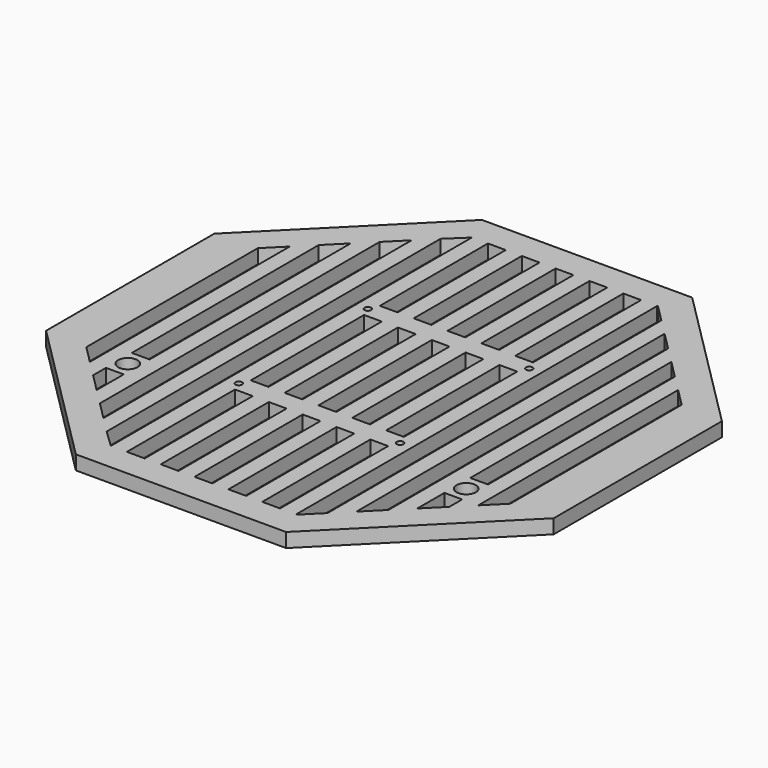
from build123d import *

# Parameters (mm, degrees)
F0_W     = 7
F0_H     = 53.215195
F0_R     = 1.3
F0_R_2   = 3.81
F0_H_2   = 55.78279
F1_DEPTH = 5.588


with BuildPart() as f1:
    # F0 (on Top) → F1 (new body)
    with BuildSketch(Plane.XY):
        Polygon((41.421356, 100), (-41.421356, 100), (-100, 41.421356), (-100, -41.421356), (-41.421356, -100), (41.421356, -100), (100, -41.421356), (100, 41.421356), align=None)
        Polygon((-63.175, -49.213586), (-63.175, -62.548586), (-70.175, -55.548586), (-70.175, -49.213586), align=None, mode=Mode.SUBTRACT)
        with Locations((-26.67, -62.292402)):
            Rectangle(F0_W, F0_H, mode=Mode.SUBTRACT)
        with Locations((-13.335, -62.292402)):
            Rectangle(F0_W, F0_H, mode=Mode.SUBTRACT)
        with BuildLine():
            ThreePointArc((-63.175, -41.344643), (-62.943305, -42.081527), (-62.865, -42.85))
            ThreePointArc((-62.865, -42.85), (-62.943305, -43.618473), (-63.175, -44.355357))
            ThreePointArc((-63.175, -44.355357), (-70.485, -42.85), (-63.175, -41.344643))
        make_face(mode=Mode.SUBTRACT)
        with Locations((-31.7881, -31.7881)):
            Circle(F0_R, mode=Mode.SUBTRACT)
        with Locations((0, -62.292402)):
            Rectangle(F0_W, F0_H, mode=Mode.SUBTRACT)
        with Locations((13.335, -62.292402)):
            Rectangle(F0_W, F0_H, mode=Mode.SUBTRACT)
        with Locations((26.67, -62.292402)):
            Rectangle(F0_W, F0_H, mode=Mode.SUBTRACT)
        Polygon((70.175, -55.548586), (63.175, -62.548586), (63.175, -49.213586), (70.175, -49.213586), align=None, mode=Mode.SUBTRACT)
        with Locations((31.7881, -31.7881)):
            Circle(F0_R, mode=Mode.SUBTRACT)
        with Locations((66.675, -42.85)):
            Circle(F0_R_2, mode=Mode.SUBTRACT)
        Polygon((49.84, -75.883586), (49.84, 75.883586), (56.84, 68.883586), (56.84, -36.486414), (56.84, -49.213586), (56.84, -68.883586), align=None, mode=Mode.SUBTRACT)
        Polygon((76.51, 49.213586), (83.51, 42.213586), (83.51, -42.213586), (76.51, -49.213586), (76.51, -36.486414), align=None, mode=Mode.SUBTRACT)
        Polygon((-83.51, -42.213586), (-83.51, 42.213586), (-76.51, 49.213586), (-76.51, -36.486414), (-76.51, -49.213586), align=None, mode=Mode.SUBTRACT)
        Polygon((-56.84, -36.486414), (-56.84, 68.883586), (-49.84, 75.883586), (-49.84, -75.883586), (-56.84, -68.883586), (-56.84, -49.213586), align=None, mode=Mode.SUBTRACT)
        Polygon((-70.175, -36.486414), (-70.175, 55.548586), (-63.175, 62.548586), (-63.175, -36.486414), align=None, mode=Mode.SUBTRACT)
        Polygon((-43.505, 82.218586), (-36.505, 88.9), (-36.505, 35.684805), (-36.505, 27.891395), (-36.505, -27.891395), (-36.505, -35.684805), (-36.505, -88.9), (-43.505, -82.218586), align=None, mode=Mode.SUBTRACT)
        with Locations((-26.67, 0)):
            Rectangle(F0_W, F0_H_2, mode=Mode.SUBTRACT)
        with Locations((-13.335, 0)):
            Rectangle(F0_W, F0_H_2, mode=Mode.SUBTRACT)
        with Locations((-31.7881, 31.7881)):
            Circle(F0_R, mode=Mode.SUBTRACT)
        with Locations((-26.67, 62.292402)):
            Rectangle(F0_W, F0_H, mode=Mode.SUBTRACT)
        with Locations((-13.335, 62.292402)):
            Rectangle(F0_W, F0_H, mode=Mode.SUBTRACT)
        Rectangle(F0_W, F0_H_2, mode=Mode.SUBTRACT)
        with Locations((13.335, 0)):
            Rectangle(F0_W, F0_H_2, mode=Mode.SUBTRACT)
        with Locations((26.67, 0)):
            Rectangle(F0_W, F0_H_2, mode=Mode.SUBTRACT)
        Polygon((36.505, 35.684805), (36.505, 88.9), (36.823586, 88.9), (43.505, 82.218586), (43.505, -82.218586), (36.823586, -88.9), (36.505, -88.9), (36.505, -35.684805), (36.505, -27.891395), (36.505, 27.891395), align=None, mode=Mode.SUBTRACT)
        with Locations((31.7881, 31.7881)):
            Circle(F0_R, mode=Mode.SUBTRACT)
        Polygon((63.175, -36.486414), (63.175, 62.548586), (70.175, 55.548586), (70.175, -36.486414), align=None, mode=Mode.SUBTRACT)
        with Locations((0, 62.292402)):
            Rectangle(F0_W, F0_H, mode=Mode.SUBTRACT)
        with Locations((13.335, 62.292402)):
            Rectangle(F0_W, F0_H, mode=Mode.SUBTRACT)
        with Locations((26.67, 62.292402)):
            Rectangle(F0_W, F0_H, mode=Mode.SUBTRACT)
    extrude(amount=F1_DEPTH)


solid = f1.part
